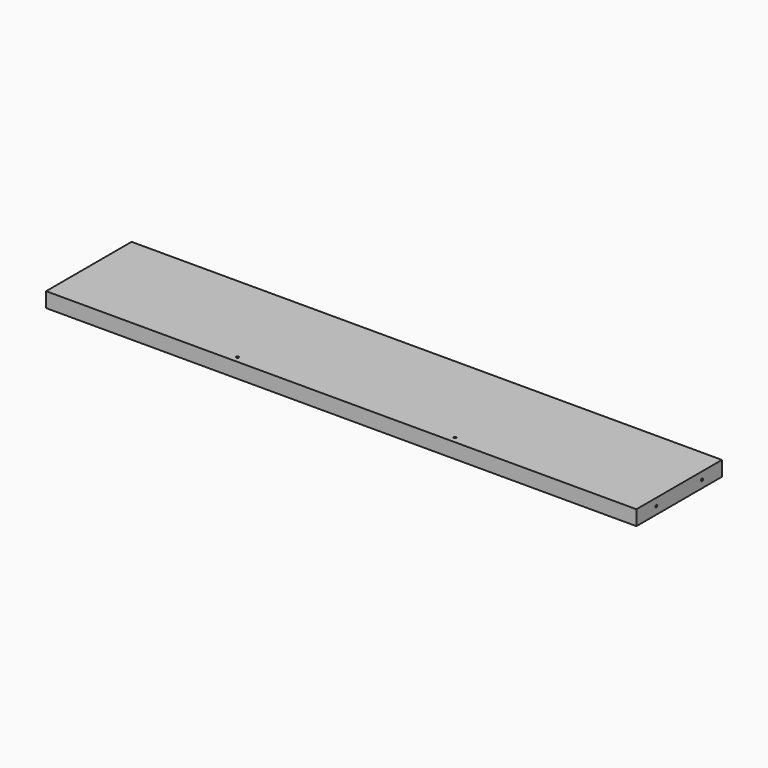
from build123d import *

# Parameters (mm, degrees)
F0_W     = 237.5
F0_H     = 43
F1_DEPTH = 12
F3_D     = 2
F3_DEPTH = 12
F3_TIP   = 0.600860619
F6_D     = 2


with BuildPart() as f1:
    # F0 (on Top) → F1 (new body)
    with BuildSketch(Plane.XY):
        with Locations((-118.75, -21.5)):
            Rectangle(F0_W, F0_H)
    extrude(amount=F1_DEPTH)

    # F3
    with Locations(Plane(origin=(-237.5, 0, 0), x_dir=(0, -1, 0), z_dir=(-1, 0, 0))):
        with Locations((23, 6)):
            Hole(F3_D / 2, depth=F3_DEPTH)
            with Locations((0, 0, -(F3_DEPTH + F3_TIP / 2))):  # 118° drill point
                Cone(0, F3_D / 2, F3_TIP, mode=Mode.SUBTRACT)

    # F4: F1 across plane


with BuildPart() as f1_1:
    add(f1.part)
    add(f1.part.mirror(Plane.XZ))

    # F6 (through all)
    with Locations(Plane.XY.offset(12)):
        with Locations((-87.5, -38)):
            Hole(F6_D / 2)

    # F7: F1 across plane


with BuildPart() as f1_2:
    add(f1_1.part)
    add(f1_1.part.mirror(Plane.YZ))


solid = f1_2.part
